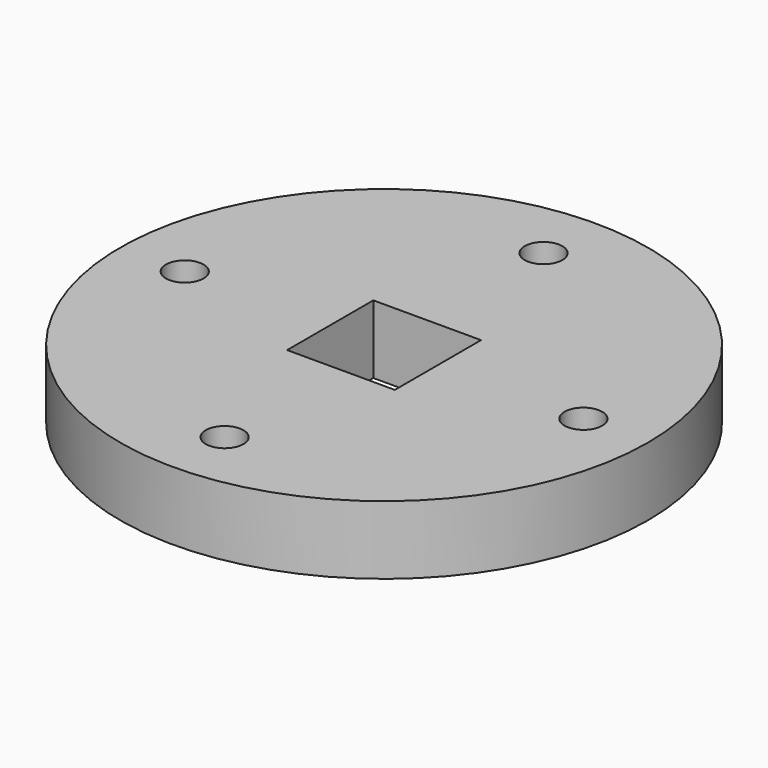
from build123d import *

# Parameters (mm, degrees)
F0_R     = 24.5
F0_R_2   = 1.75
F0_W     = 10
F0_H     = 10
F1_DEPTH = 6.35


with BuildPart() as f1:
    # F0 (on Top) → F1 (new body)
    with BuildSketch(Plane.XY):
        Circle(F0_R)
        with Locations((0, -18.5)):
            Circle(F0_R_2, mode=Mode.SUBTRACT)
        with Locations((-18.5, 0)):
            Circle(F0_R_2, mode=Mode.SUBTRACT)
        Rectangle(F0_W, F0_H, mode=Mode.SUBTRACT)
        with Locations((18.5, 0)):
            Circle(F0_R_2, mode=Mode.SUBTRACT)
        with Locations((0, 18.5)):
            Circle(F0_R_2, mode=Mode.SUBTRACT)
    extrude(amount=F1_DEPTH)


solid = f1.part
